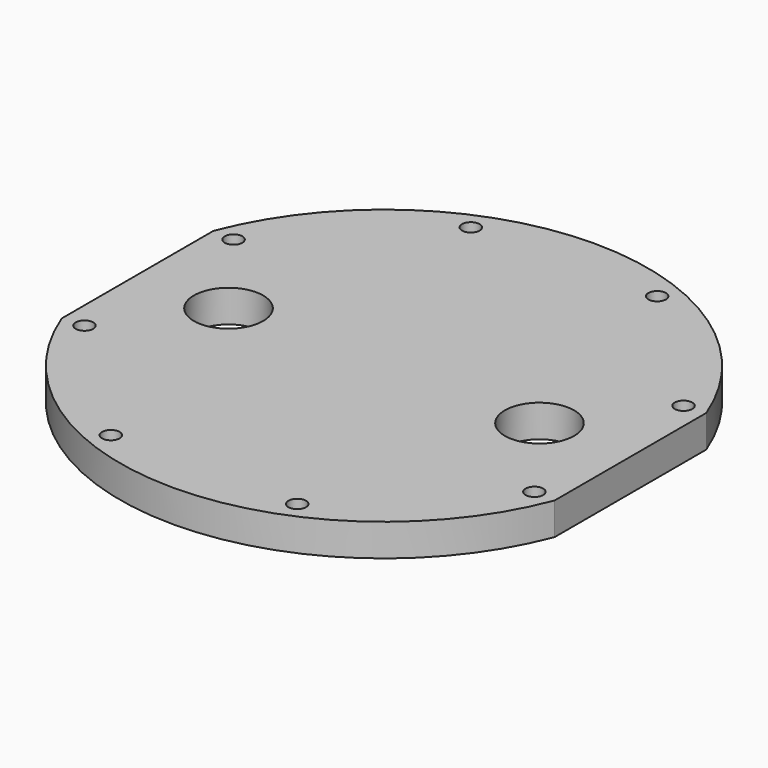
from build123d import *

# Parameters (mm, degrees)
F0_R     = 1.5
F0_R_2   = 5.9
F1_DEPTH = 5.5


with BuildPart() as f1:
    # F0 (on Top) → F1 (new body)
    with BuildSketch(Plane.XY):
        with BuildLine():
            ThreePointArc((-42, -16.155494), (0, -45), (42, -16.155494))
            Line((42, -16.155494), (42, 16.155494))
            ThreePointArc((42, 16.155494), (0, 45), (-42, 16.155494))
            Line((-42, 16.155494), (-42, -16.155494))
        make_face()
        with Locations((-15.881362, -38.341001)):
            Circle(F0_R, mode=Mode.SUBTRACT)
        with Locations((-38.341001, -15.881362)):
            Circle(F0_R, mode=Mode.SUBTRACT)
        with Locations((15.881362, -38.341001)):
            Circle(F0_R, mode=Mode.SUBTRACT)
        with Locations((38.341001, -15.881362)):
            Circle(F0_R, mode=Mode.SUBTRACT)
        with Locations((-26.5, 0)):
            Circle(F0_R_2, mode=Mode.SUBTRACT)
        with Locations((-38.341001, 15.881362)):
            Circle(F0_R, mode=Mode.SUBTRACT)
        with Locations((-15.881362, 38.341001)):
            Circle(F0_R, mode=Mode.SUBTRACT)
        with Locations((26.5, 0)):
            Circle(F0_R_2, mode=Mode.SUBTRACT)
        with Locations((38.341001, 15.881362)):
            Circle(F0_R, mode=Mode.SUBTRACT)
        with Locations((15.881362, 38.341001)):
            Circle(F0_R, mode=Mode.SUBTRACT)
    extrude(amount=F1_DEPTH)


solid = f1.part
